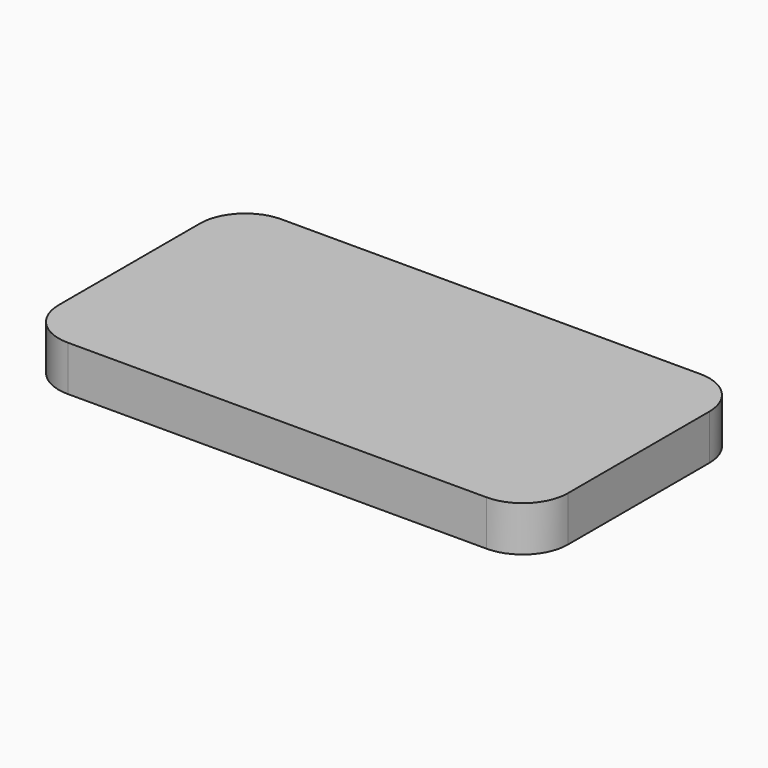
from build123d import *

# Parameters (mm, degrees)
F0_W     = 142.95493
F0_H     = 74.974402
F1_DEPTH = 12.7
F2_R     = 12.7
F3_R     = 7.313249
F4_DEPTH = 1.27


with BuildPart() as f1:
    # F0 (on Top) → F1 (new body)
    with BuildSketch(Plane.XY):
        Rectangle(F0_W, F0_H)
    extrude(amount=F1_DEPTH)

    # F2
    f2_edges = [f1.edges().sort_by_distance(p)[0] for p in [
        (71.477465, -37.487201, 6.35),
        (71.477465, 37.487201, 6.35),
        (-71.477465, 37.487201, 6.35),
        (-71.477465, -37.487201, 6.35),
    ]]
    fillet(f2_edges, radius=F2_R)

    # F3 (on face) → F4 (cut)
    with BuildSketch(Plane(origin=(0, 0, 0), x_dir=(1, 0, 0), z_dir=(0, 0, -1))):
        with Locations((-62.073462, 0)):
            Circle(F3_R)
    extrude(amount=-F4_DEPTH, mode=Mode.SUBTRACT)


solid = f1.part
